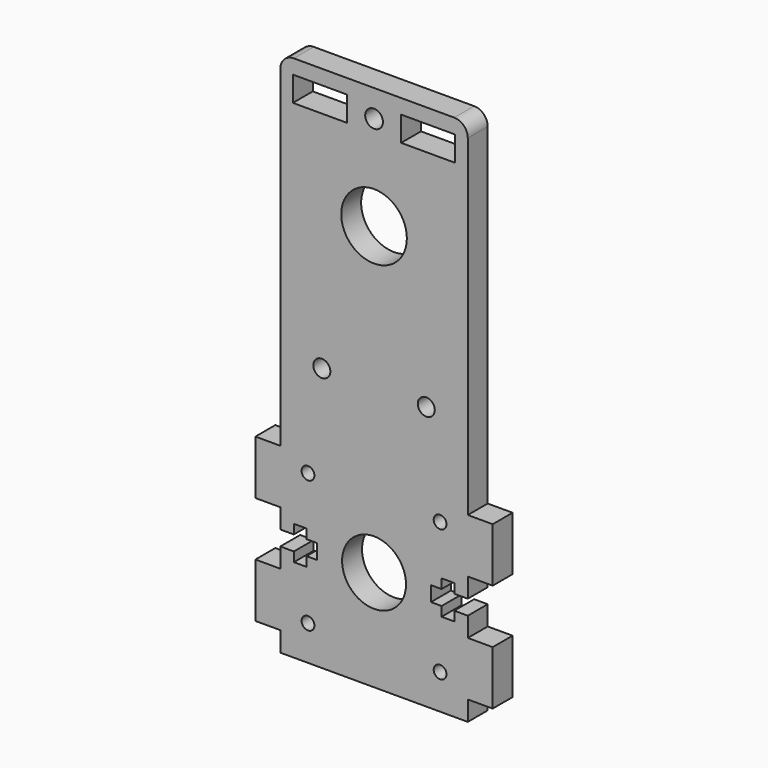
from build123d import *

# Parameters (mm, degrees)
F0_R     = 1.5
F0_R_2   = 7.5
F0_R_3   = 2
F0_W     = 12.7
F0_H     = 5.842
F0_R_4   = 7.7
F1_DEPTH = 5.842
F2_R     = 3.175
F4_DEPTH = 5.843
F5_R     = 2.0828
F6_DEPTH = 25.4


with BuildPart() as f1:
    # F0 (on Front) → F1 (new body)
    with BuildSketch(Plane.XZ):
        Polygon((22, 28.575), (-22, 28.575), (-22, -52.5018), (-27.842, -52.5018), (-27.842, -65.2018), (-22, -65.2018), (-22, -77.9018), (-27.842, -77.9018), (-27.842, -90.6018), (-22, -90.6018), (-22, -95.25), (22, -95.25), (22, -90.6018), (27.842, -90.6018), (27.842, -77.9018), (22, -77.9018), (22, -65.2018), (27.842, -65.2018), (27.842, -52.5018), (22, -52.5018), align=None)
        with Locations((-15.5, -87.0518)):
            Circle(F0_R, mode=Mode.SUBTRACT)
        with Locations((-15.5, -56.0518)):
            Circle(F0_R, mode=Mode.SUBTRACT)
        with Locations((0, -71.5518)):
            Circle(F0_R_2, mode=Mode.SUBTRACT)
        with Locations((15.5, -87.0518)):
            Circle(F0_R, mode=Mode.SUBTRACT)
        with Locations((15.5, -56.0518)):
            Circle(F0_R, mode=Mode.SUBTRACT)
        with Locations((-12.255778, -33.3375)):
            Circle(F0_R_3, mode=Mode.SUBTRACT)
        with Locations((-12.7, 22.225)):
            Rectangle(F0_W, F0_H, mode=Mode.SUBTRACT)
        with Locations((12.255778, -33.3375)):
            Circle(F0_R_3, mode=Mode.SUBTRACT)
        Circle(F0_R_4, mode=Mode.SUBTRACT)
        with Locations((12.7, 22.225)):
            Rectangle(F0_W, F0_H, mode=Mode.SUBTRACT)
    extrude(amount=F1_DEPTH)

    # F2
    f2_edges = [f1.edges().sort_by_distance(p)[0] for p in [
        (-22, -2.921, 28.575),
        (22, -2.921, 28.575),
    ]]
    fillet(f2_edges, radius=F2_R)

    # F3 (on face) → F4 (cut, through all)
    with BuildSketch(Plane.XZ.offset(5.842)):
        Polygon((-18.825, -69.7992), (-22, -69.7992), (-22, -73.3044), (-18.825, -73.3044), (-18.825, -75.52055), (-15.846875, -75.52055), (-15.846875, -73.3044), (-13.3545, -73.3044), (-13.3545, -69.7992), (-15.846875, -69.7992), (-15.846875, -67.58305), (-18.825, -67.58305), align=None)
        Polygon((22, -73.3044), (22, -69.7992), (18.825, -69.7992), (18.825, -67.58305), (15.846875, -67.58305), (15.846875, -69.7992), (13.3545, -69.7992), (13.3545, -73.3044), (15.846875, -73.3044), (15.846875, -75.52055), (18.825, -75.52055), (18.825, -73.3044), align=None)
    extrude(amount=-F4_DEPTH, mode=Mode.SUBTRACT)

    # F5 (on face) → F6 (cut)
    with BuildSketch(Plane.XZ.offset(5.842)):
        with Locations((0, 22.225)):
            Circle(F5_R)
    extrude(amount=-F6_DEPTH, mode=Mode.SUBTRACT)


solid = f1.part
